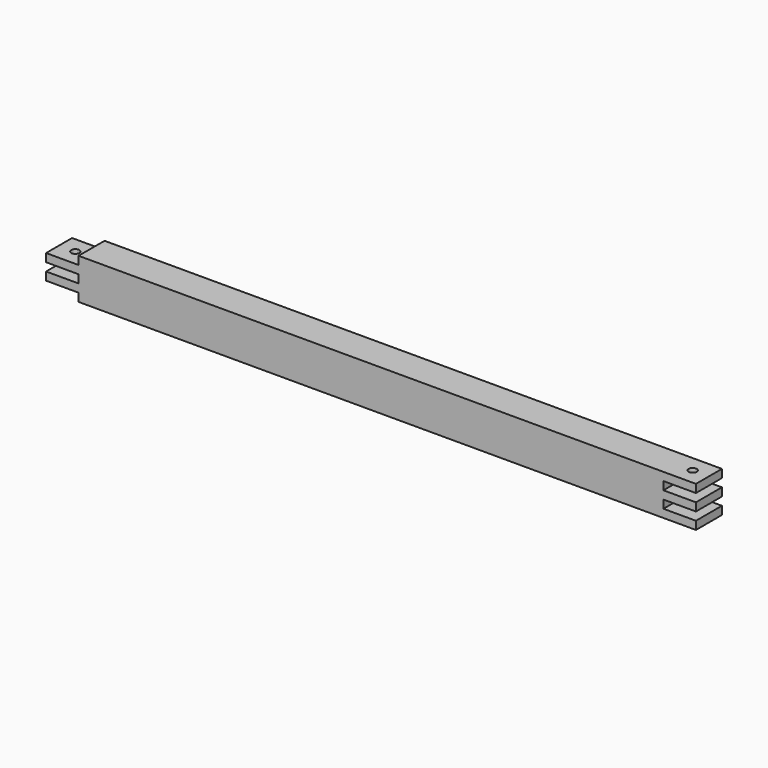
from build123d import *

# Parameters (mm, degrees)
SKETCH_W        = 508
SKETCH_H        = 31.75
PAD_DEPTH       = 25.4
SKETCH001_W     = 25.4
SKETCH001_H     = 6.35
POCKET_DEPTH    = 25.401
SKETCH002_W     = 25.4
SKETCH002_H     = 6.35
POCKET001_DEPTH = 25.401
SKETCH003_R     = 3.175
POCKET002_DEPTH = 31.751


with BuildPart() as part:
    # Sketch → Pad (new body)
    with BuildSketch(Plane.XZ):
        Rectangle(SKETCH_W, SKETCH_H)
    extrude(amount=PAD_DEPTH)

    # Sketch001 (on Face6 of Pad) → Pocket (cut, through all)
    with BuildSketch(Plane.XZ.offset(25.4)):
        with Locations((-241.3, 12.7)):
            Rectangle(SKETCH001_W, SKETCH001_H)
        with Locations((-241.3, 0)):
            Rectangle(SKETCH001_W, SKETCH001_H)
        with Locations((-241.3, -12.7)):
            Rectangle(SKETCH001_W, SKETCH001_H)
    extrude(amount=-POCKET_DEPTH, mode=Mode.SUBTRACT)

    # Sketch002 (on Face6 of Pad) → Pocket001 (cut, through all)
    with BuildSketch(Plane.XZ.offset(25.4)):
        with Locations((241.3, 6.35)):
            Rectangle(SKETCH002_W, SKETCH002_H)
        with Locations((241.3, -6.35)):
            Rectangle(SKETCH002_W, SKETCH002_H)
    extrude(amount=-POCKET001_DEPTH, mode=Mode.SUBTRACT)

    # Sketch003 (on Face11 of Pocket001) → Pocket002 (cut, through all)
    with BuildSketch(Plane(origin=(0, 0, -15.875), x_dir=(1, 0, 0), z_dir=(0, 0, -1))):
        with Locations((-241.3, 12.7)):
            Circle(SKETCH003_R)
        with Locations((241.3, 12.7)):
            Circle(SKETCH003_R)
    extrude(amount=-POCKET002_DEPTH, mode=Mode.SUBTRACT)


solid = part.part
